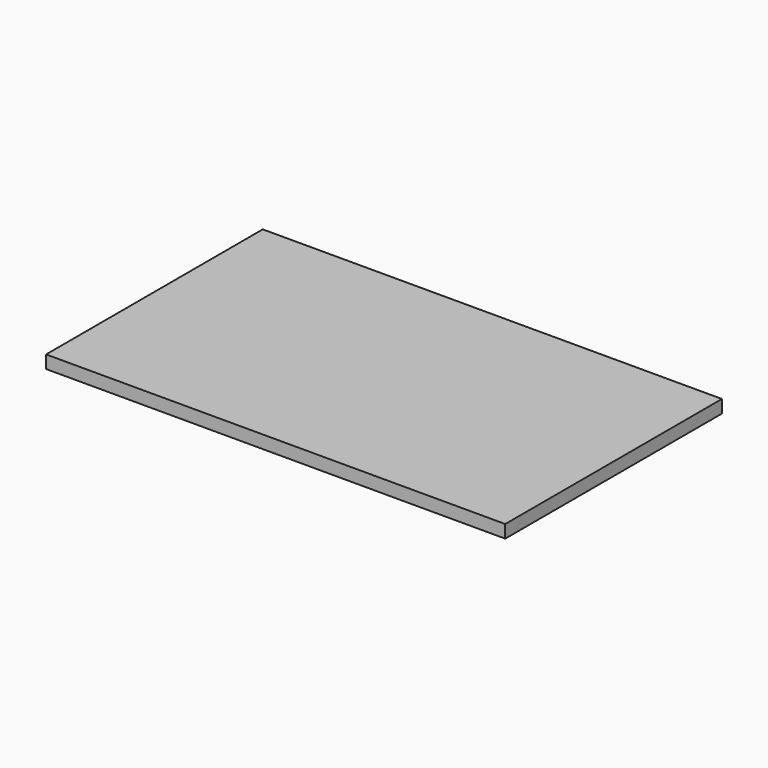
from build123d import *

# Parameters (mm, degrees)
SKETCH_W  = 17.8
SKETCH_H  = 10.5
PAD_DEPTH = 0.5


with BuildPart() as part:
    # Sketch → Pad (new body)
    with BuildSketch(Plane.XY):
        Rectangle(SKETCH_W, SKETCH_H)
    extrude(amount=PAD_DEPTH)


solid = part.part
